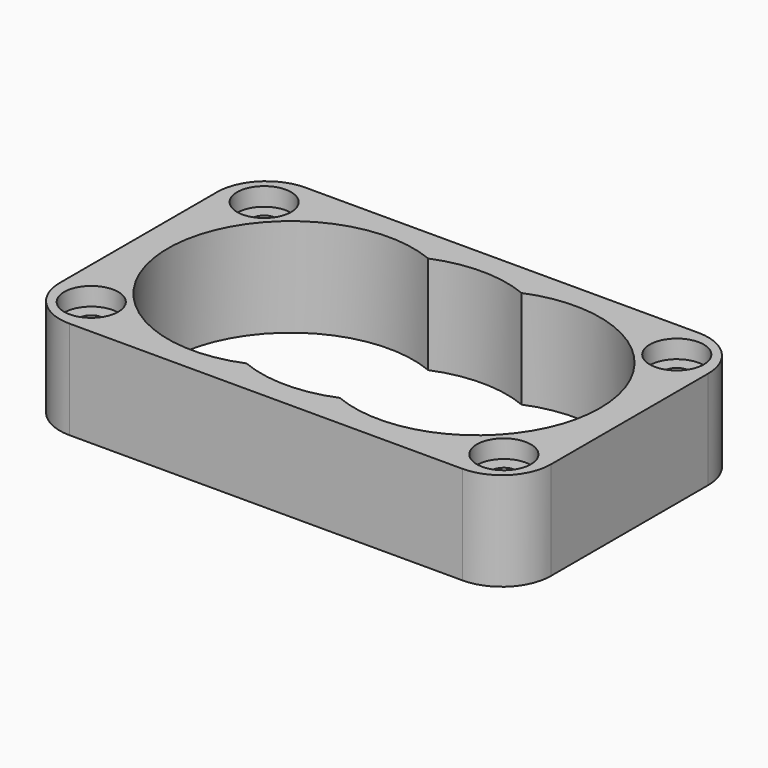
from build123d import *

# Parameters (mm, degrees)
F1_DEPTH       = 10
F1_DEPTH_BACK  = 10
F3_D           = 5
F3_CBORE_D     = 11
F3_CBORE_DEPTH = 3.7


with BuildPart() as f1:
    # F0 (on Top) → F1 (new body, two sides)
    with BuildSketch(Plane.XY) as f1_sk:
        with BuildLine():
            ThreePointArc((50, 20), (47.071068, 27.071068), (40, 30))
            Line((40, 30), (-40, 30))
            ThreePointArc((-40, 30), (-47.071068, 27.071068), (-50, 20))
            Line((-50, 20), (-50, -20))
            ThreePointArc((-50, -20), (-47.071068, -27.071068), (-40, -30))
            Line((-40, -30), (40, -30))
            ThreePointArc((40, -30), (47.071068, -27.071068), (50, -20))
            Line((50, -20), (50, 20))
        make_face()
        with BuildLine():
            ThreePointArc((-9.5, 23.124662), (0, 25), (9.5, 23.124662))
            ThreePointArc((9.5, 23.124662), (32.919411, 20.76656), (44, 0))
            ThreePointArc((44, 0), (32.919411, -20.76656), (9.5, -23.124662))
            ThreePointArc((9.5, -23.124662), (0, -25), (-9.5, -23.124662))
            ThreePointArc((-9.5, -23.124662), (-44, 0), (-9.5, 23.124662))
        make_face(mode=Mode.SUBTRACT)
    extrude(amount=F1_DEPTH)
    extrude(f1_sk.sketch, amount=-F1_DEPTH_BACK)

    # F3 (through all)
    with Locations(Plane.XY.offset(10)):
        with Locations((-42, -22), (-42, 22), (42, 22), (42, -22)):
            CounterBoreHole(F3_D / 2, F3_CBORE_D / 2, F3_CBORE_DEPTH)


solid = f1.part
